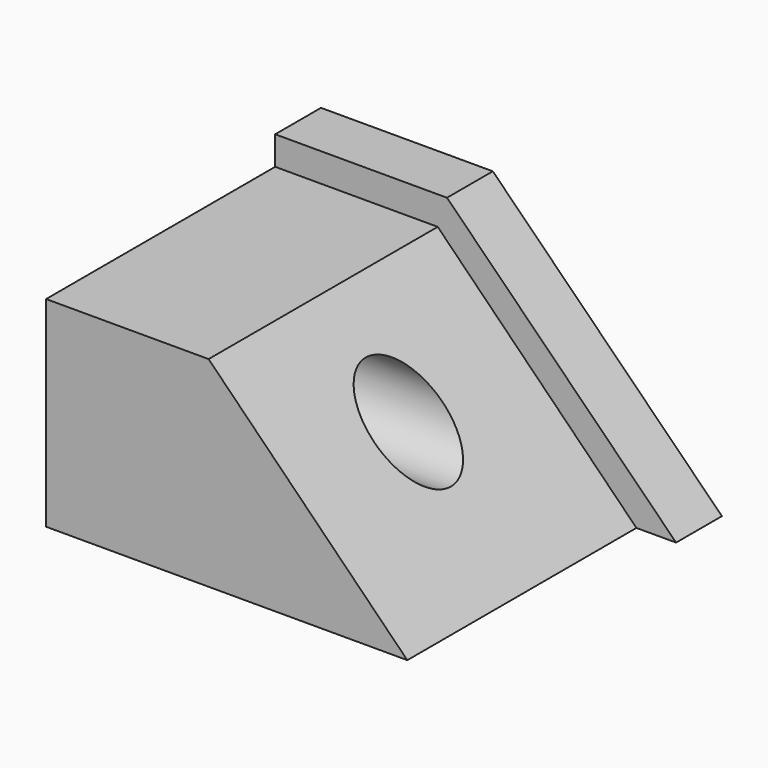
from build123d import *

# Parameters (mm, degrees)
F1_DEPTH = 76.2
F3_DEPTH = 63.5
F4_R     = 9.525
F5_DEPTH = 101.6


with BuildPart() as f1:
    # F0 (on Front) → F1 (new body)
    with BuildSketch(Plane.XZ):
        Polygon((0, 50.8), (0, 0), (88.9, 0), (38.1, 50.8), align=None)
    extrude(amount=F1_DEPTH)

    # F2 (on face) → F3 (cut)
    with BuildSketch(Plane.XZ.offset(76.2)):
        Polygon((0, 50.8), (0, 44.45), (36.038775, 44.45), (80.102558, 0), (88.9, 0), (38.1, 50.8), align=None)
    extrude(amount=-F3_DEPTH, mode=Mode.SUBTRACT)

    # F4 (on face) → F5 (cut)
    with BuildSketch(Plane(origin=(0, 0, 0), x_dir=(0, -1, 0), z_dir=(-1, 0, 0))):
        with Locations((44.45, 25.4)):
            Circle(F4_R)
    extrude(amount=-F5_DEPTH, mode=Mode.SUBTRACT)


solid = f1.part
